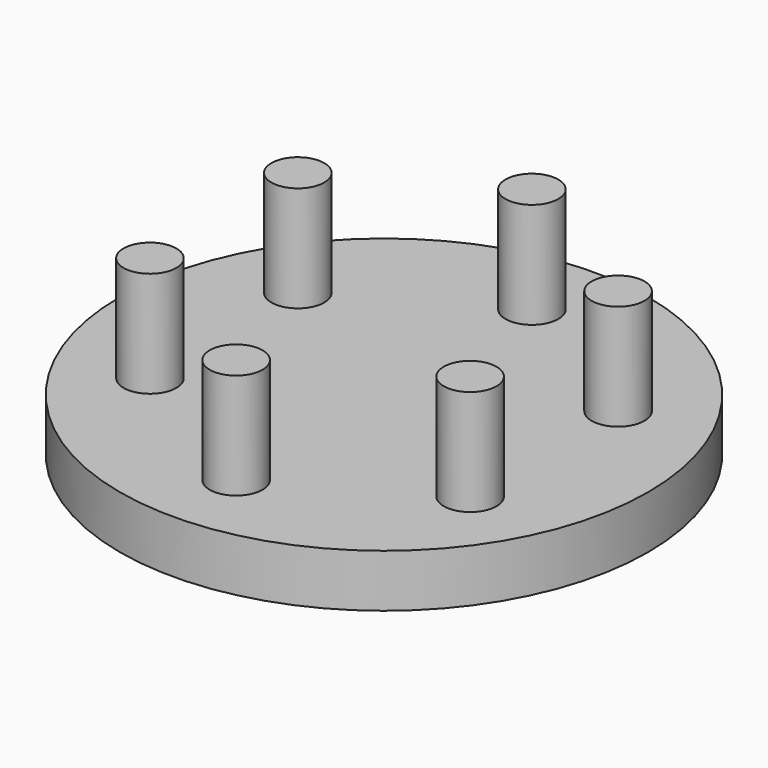
from build123d import *

# Parameters (mm, degrees)
F0_R     = 50
F1_DEPTH = 5
F2_R     = 5
F3_DEPTH = 25


with BuildPart() as f1:
    # F0 (on Top) → F1 (new body, symmetric)
    with BuildSketch(Plane.XY):
        Circle(F0_R)
    extrude(amount=F1_DEPTH, both=True)

    # F2 (on Top) → F3 (join)
    with BuildSketch(Plane.XY):
        with Locations((0, 35)):
            Circle(F2_R)
        with Locations((-30.310889, 17.5)):
            Circle(F2_R)
        with Locations((-30.310889, -17.5)):
            Circle(F2_R)
        with Locations((0, -35)):
            Circle(F2_R)
        with Locations((30.310889, -17.5)):
            Circle(F2_R)
        with Locations((30.310889, 17.5)):
            Circle(F2_R)
    extrude(amount=F3_DEPTH)


solid = f1.part
